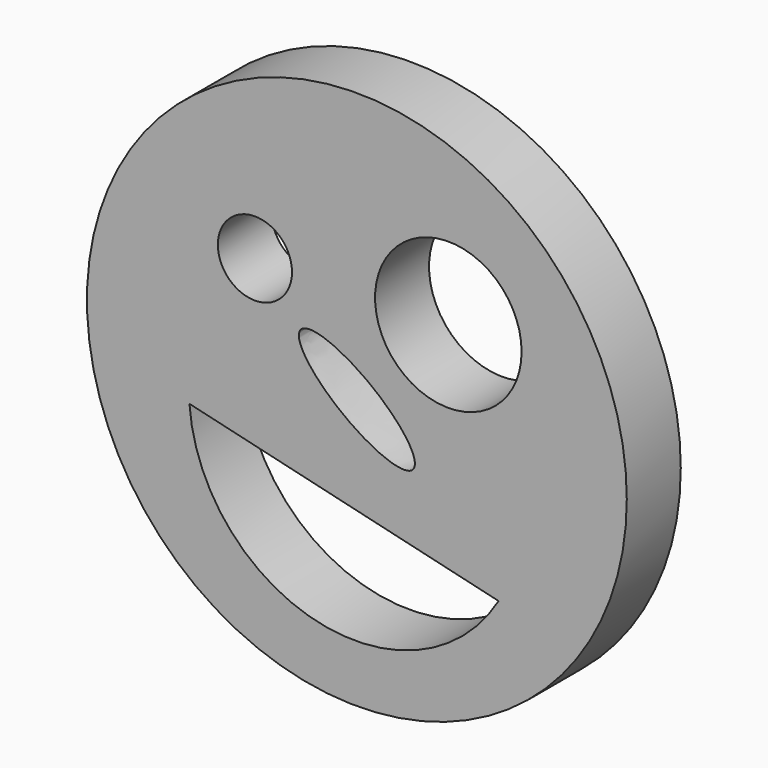
from build123d import *

# Parameters (mm, degrees)
F0_R     = 25.4
F1_DEPTH = 6.35
F2_R     = 3.489483
F2_R_2   = 6.893113
F3_DEPTH = 6.35


with BuildPart() as f1:
    # F0 (on Front) → F1 (new body)
    with BuildSketch(Plane.XZ):
        Circle(F0_R)
    extrude(amount=F1_DEPTH)

    # F2 (on face) → F3 (cut)
    with BuildSketch(Plane.XZ.offset(6.35)):
        with Locations((-9.59337, 8.569406)):
            Circle(F2_R)
        with Locations((8.605205, 8.999294)):
            Circle(F2_R_2)
        with BuildLine():
            add(Edge.make_bspline(
                [(5.309401, -4.040631), (7.505178, -1.155375), (-1.556812, 3.462944), (-10.618802, 8.081263), (-3.752589, 0.577687), (3.113625, -6.925888), (5.309401, -4.040631)],
                knots=[0, 0, 0, 2.094395, 2.094395, 4.18879, 4.18879, 6.283185, 6.283185, 6.283185], degree=2, weights=[1, 0.5, 1, 0.5, 1, 0.5, 1]))
        make_face()
        with BuildLine():
            Line((13.33397, -12.351792), (-15.755093, -5.47359))
            ThreePointArc((-15.755093, -5.47359), (-3.738986, -19.605821), (13.33397, -12.351792))
        make_face()
    extrude(amount=-F3_DEPTH, mode=Mode.SUBTRACT)


solid = f1.part
